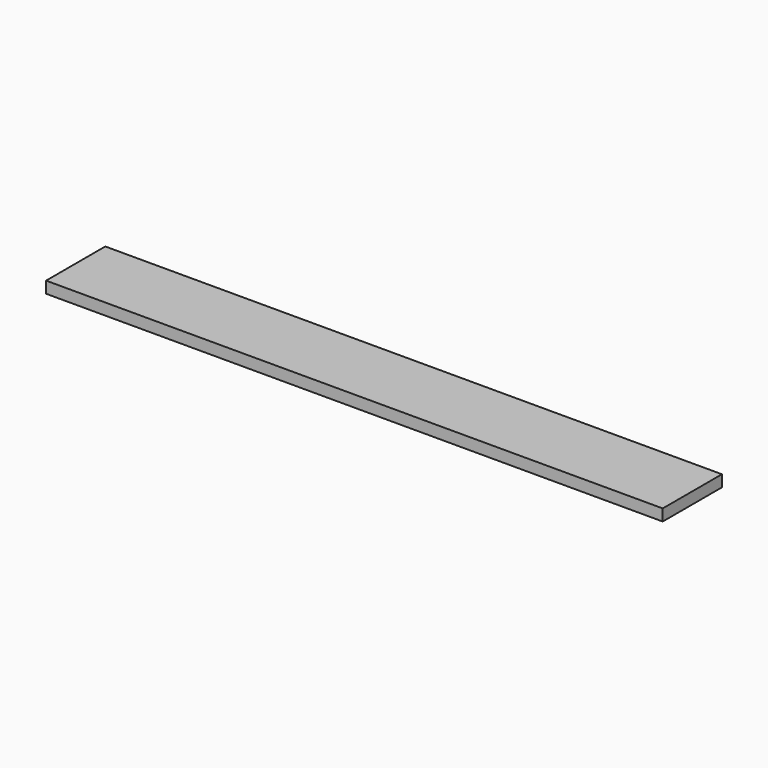
from build123d import *

# Parameters (mm, degrees)
F0_W     = 1270
F0_H     = 152.4
F1_DEPTH = 23.8125
F2_W     = 26.9875
F2_H     = 102.39375
F3_DEPTH = 12.7


with BuildPart() as f1:
    # F0 (on Top) → F1 (new body)
    with BuildSketch(Plane.XY):
        with Locations((-274.246497, -140.481441)):
            Rectangle(F0_W, F0_H)
    extrude(amount=F1_DEPTH)

    # F2 (on face) → F3 (cut)
    with BuildSketch(Plane(origin=(0, 0, 0), x_dir=(1, 0, 0), z_dir=(0, 0, -1))):
        with Locations((-844.952747, 140.481441)):
            Rectangle(F2_W, F2_H)
        with Locations((296.459753, 140.481441)):
            Rectangle(F2_W, F2_H)
    extrude(amount=-F3_DEPTH, mode=Mode.SUBTRACT)


solid = f1.part
